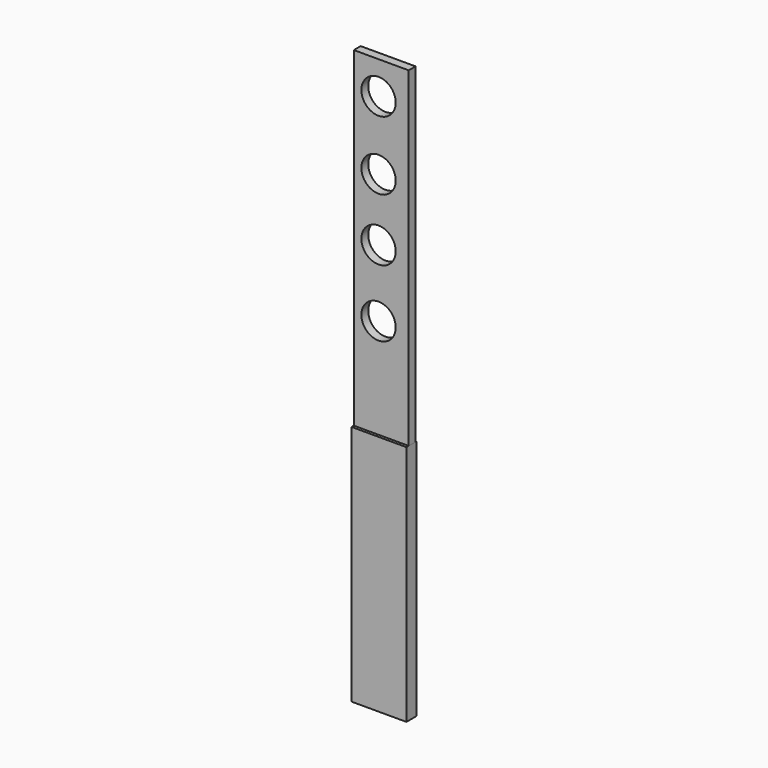
from build123d import *

# Parameters (mm, degrees)
F0_W          = 24.365307
F0_H          = 146.693479
F0_R          = 7.62
F1_DEPTH      = 3.81
F0_H_2        = 107.306521
F2_DEPTH      = 5.08
F2_DEPTH_BACK = 0.508


with BuildPart() as f1:
    # F0 (on Front) → F1 (new body)
    with BuildSketch(Plane.XZ):
        with Locations((-1.773852, 53.093097)):
            Rectangle(F0_W, F0_H)
        with Locations((-2.979757, 24.128733)):
            Circle(F0_R, mode=Mode.SUBTRACT)
        with Locations((-2.979757, 53.856548)):
            Circle(F0_R, mode=Mode.SUBTRACT)
        with Locations((-2.979757, 81.490859)):
            Circle(F0_R, mode=Mode.SUBTRACT)
        with Locations((-2.979757, 111.939309)):
            Circle(F0_R, mode=Mode.SUBTRACT)
    extrude(amount=F1_DEPTH)


with BuildPart() as f2:
    # F0 (on Front) → F2 (new body, two sides)
    with BuildSketch(Plane.XZ) as f2_sk:
        with Locations((-1.773852, -73.906903)):
            Rectangle(F0_W, F0_H_2)
    extrude(amount=F2_DEPTH)
    extrude(f2_sk.sketch, amount=-F2_DEPTH_BACK)


solid = Compound([f1.part, f2.part])
